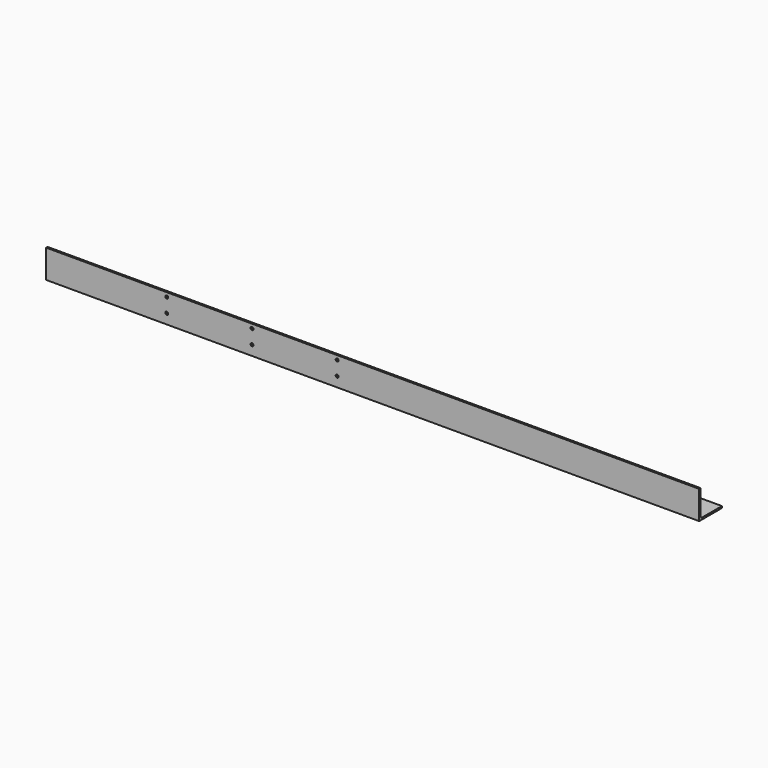
from build123d import *

# Parameters (mm, degrees)
F1_DEPTH = 1168.4
F2_R     = 2.6162
F3_DEPTH = 50.801
F4_R     = 2.6162
F5_DEPTH = 3.176
F6_R     = 2.6162
F7_DEPTH = 50.801


with BuildPart() as f1:
    # F0 (on Right) → F1 (new body)
    with BuildSketch(Plane.YZ):
        with BuildLine():
            Line((0, -44.45), (0, 0))
            Line((0, 0), (-3.175, 0))
            Line((-3.175, 0), (-3.175, -50.8))
            Line((-3.175, -50.8), (47.625, -50.8))
            Line((47.625, -50.8), (47.625, -47.625))
            Line((47.625, -47.625), (3.175, -47.625))
            ThreePointArc((3.175, -47.625), (0.929936, -46.695064), (0, -44.45))
        make_face()
    extrude(amount=-F1_DEPTH)

    # F2 (on face) → F3 (cut, through all)
    with BuildSketch(Plane(origin=(0, 0, -50.8), x_dir=(1, 0, 0), z_dir=(0, 0, -1))):
        with Locations((-1109.2, -37.5666)):
            Circle(F2_R)
        with Locations((-1109.2, -6.8834)):
            Circle(F2_R)
        with Locations((-959.2, -37.5666)):
            Circle(F2_R)
        with Locations((-959.2, -6.8834)):
            Circle(F2_R)
        with Locations((-809.2, -37.5666)):
            Circle(F2_R)
        with Locations((-809.2, -6.8834)):
            Circle(F2_R)
        with Locations((-659.2, -37.5666)):
            Circle(F2_R)
        with Locations((-659.2, -6.8834)):
            Circle(F2_R)
        with Locations((-509.2, -37.5666)):
            Circle(F2_R)
        with Locations((-509.2, -6.8834)):
            Circle(F2_R)
        with Locations((-359.2, -37.5666)):
            Circle(F2_R)
        with Locations((-359.2, -6.8834)):
            Circle(F2_R)
        with Locations((-209.2, -37.5666)):
            Circle(F2_R)
        with Locations((-209.2, -6.8834)):
            Circle(F2_R)
        with Locations((-59.2, -37.5666)):
            Circle(F2_R)
        with Locations((-59.2, -6.8834)):
            Circle(F2_R)
    extrude(amount=-F3_DEPTH, mode=Mode.SUBTRACT)

    # F4 (on face) → F5 (cut, through all)
    with BuildSketch(Plane.XY.offset(-47.625)):
        with Locations((-25.4, 22.225)):
            Circle(F4_R)
        with Locations((-1117.6, 22.225)):
            Circle(F4_R)
        with Locations((-166.3319, 39.6875)):
            Circle(F4_R)
        with Locations((-976.6554, 39.6875)):
            Circle(F4_R)
    extrude(amount=-F5_DEPTH, mode=Mode.SUBTRACT)

    # F6 (on face) → F7 (cut, through all)
    with BuildSketch(Plane.XZ.offset(3.175)):
        with Locations((-952.5, -7.62)):
            Circle(F6_R)
        with Locations((-800.1, -7.62)):
            Circle(F6_R)
        with Locations((-647.7, -7.62)):
            Circle(F6_R)
        with Locations((-952.5, -33.02)):
            Circle(F6_R)
        with Locations((-800.1, -33.02)):
            Circle(F6_R)
        with Locations((-647.7, -33.02)):
            Circle(F6_R)
    extrude(amount=-F7_DEPTH, mode=Mode.SUBTRACT)


solid = f1.part
